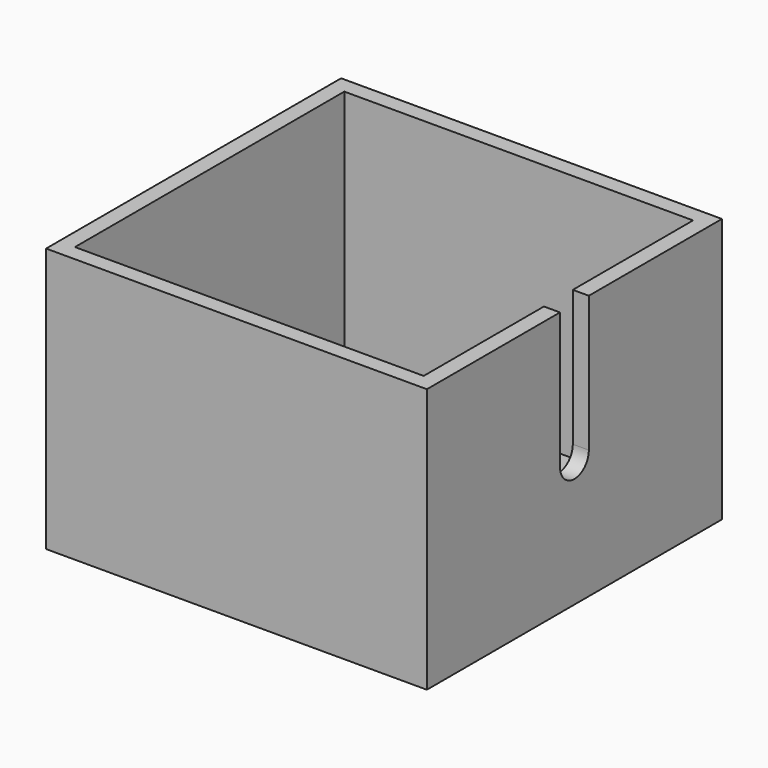
from build123d import *

# Parameters (mm, degrees)
F0_W     = 47.5
F0_H     = 46
F1_DEPTH = 33
F2_W     = 43.5
F2_H     = 42
F3_DEPTH = 31
F5_DEPTH = 5


with BuildPart() as f1:
    # F0 (on Top) → F1 (new body)
    with BuildSketch(Plane.XY):
        Rectangle(F0_W, F0_H)
    extrude(amount=F1_DEPTH)

    # F2 (on face) → F3 (cut)
    with BuildSketch(Plane.XY.offset(33)):
        Rectangle(F2_W, F2_H)
    extrude(amount=-F3_DEPTH, mode=Mode.SUBTRACT)

    # F4 (on face) → F5 (cut)
    with BuildSketch(Plane.YZ.offset(23.75)):
        with BuildLine():
            ThreePointArc((-2.25, 16.043559), (0, 18.293559), (2.25, 16.043559))
            Line((2.25, 16.043559), (2.25, 33))
            Line((2.25, 33), (-2.25, 33))
            Line((-2.25, 33), (-2.25, 16.043559))
        make_face()
        with BuildLine():
            ThreePointArc((-2.25, 16.043559), (0, 13.793559), (2.25, 16.043559))
            ThreePointArc((2.25, 16.043559), (0, 18.293559), (-2.25, 16.043559))
        make_face()
    extrude(amount=-F5_DEPTH, mode=Mode.SUBTRACT)


solid = f1.part
